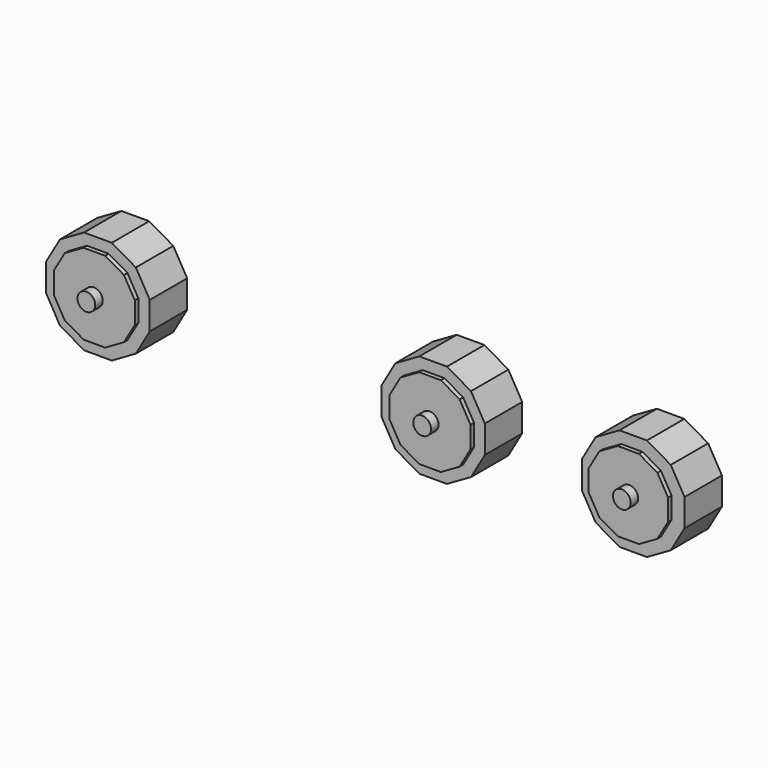
from build123d import *

# Parameters (mm, degrees)
F7_DEPTH  = 8.636
F8_DEPTH  = 0.92202
F9_DEPTH  = 9.4488
F10_R     = 1.642522
F10_R_2   = 1.635058
F10_R_3   = 1.64144
F11_DEPTH = 11.176


with BuildPart() as f7:
    # F2 (on offset) → F7 (new body)
    with BuildSketch(Plane.XZ.offset(-10.16)):
        Polygon((51.644535, -13.246438), (56.726567, -13.246438), (61.127735, -10.705422), (63.668751, -6.304253), (63.668751, -1.222221), (61.127735, 3.178948), (56.726567, 5.719963), (51.644535, 5.719963), (47.243366, 3.178948), (44.70235, -1.222221), (44.70235, -6.304253), (47.243366, -10.705422), align=None)
        Polygon((19.781738, 5.719963), (14.666908, 5.719963), (10.237334, 3.162548), (7.679919, -1.267026), (7.679919, -6.381856), (10.237334, -10.81143), (14.666908, -13.368845), (19.781738, -13.368845), (24.211312, -10.81143), (26.768727, -6.381856), (26.768727, -1.267026), (24.211312, 3.162548), align=None)
        Polygon((-42.154215, 5.719963), (-47.286653, 5.719963), (-51.731474, 3.153745), (-54.297693, -1.291077), (-54.297693, -6.423515), (-51.731474, -10.868336), (-47.286653, -13.434555), (-42.154215, -13.434555), (-37.709393, -10.868336), (-35.143174, -6.423515), (-35.143174, -1.291077), (-37.709393, 3.153745), align=None)
    extrude(amount=F7_DEPTH)


with BuildPart() as f8:
    # F5 (on offset) → F8 (new body)
    with BuildSketch(Plane.XZ.offset(-10.16)):
        Polygon((-42.745606, 3.673679), (-46.712904, 3.673679), (-50.148686, 1.69003), (-52.132335, -1.745751), (-52.132335, -5.71305), (-50.148686, -9.148831), (-46.712904, -11.13248), (-42.745606, -11.13248), (-39.309825, -9.148831), (-37.326175, -5.71305), (-37.326175, -1.745751), (-39.309825, 1.69003), align=None)
        Polygon((19.298258, 3.645636), (15.300904, 3.645636), (11.839094, 1.646959), (9.840417, -1.814851), (9.840417, -5.812205), (11.839094, -9.274015), (15.300904, -11.272692), (19.298258, -11.272692), (22.760069, -9.274015), (24.758746, -5.812205), (24.758746, -1.814851), (22.760069, 1.646959), align=None)
        Polygon((56.059271, 3.589552), (52.122027, 3.589552), (48.712274, 1.62093), (46.743653, -1.788823), (46.743653, -5.726066), (48.712274, -9.135819), (52.122027, -11.10444), (56.059271, -11.10444), (59.469023, -9.135819), (61.437645, -5.726066), (61.437645, -1.788823), (59.469023, 1.62093), align=None)
    extrude(amount=-F8_DEPTH)


with BuildPart() as f9:
    # F6 (on offset) → F9 (new body)
    with BuildSketch(Plane.XZ.offset(-10.16)):
        Polygon((61.279297, -5.700756), (61.279297, -1.769139), (59.313488, 1.635742), (55.908608, 3.60155), (51.976991, 3.60155), (48.572111, 1.635742), (46.606302, -1.769139), (46.606302, -5.700756), (48.572111, -9.105636), (51.976991, -11.071444), (55.908608, -11.071444), (59.313488, -9.105636), align=None)
        Polygon((9.828299, -1.782559), (9.828299, -5.78566), (11.829849, -9.252446), (15.296636, -11.253997), (19.299736, -11.253997), (22.766523, -9.252446), (24.768073, -5.78566), (24.768073, -1.782559), (22.766523, 1.684227), (19.299736, 3.685777), (15.296636, 3.685777), (11.829849, 1.684227), align=None)
        Polygon((-52.198444, -1.71586), (-52.198444, -5.718961), (-50.196893, -9.185748), (-46.730105, -11.187299), (-42.727004, -11.187299), (-39.260217, -9.185748), (-37.258666, -5.718961), (-37.258666, -1.71586), (-39.260217, 1.750928), (-42.727004, 3.752478), (-46.730105, 3.752478), (-50.196893, 1.750928), align=None)
    extrude(amount=F9_DEPTH)


with BuildPart() as f11:
    # F10 (on offset) → F11 (new body)
    with BuildSketch(Plane.XZ.offset(-10.16)):
        with Locations((-44.832822, -3.706632)):
            Circle(F10_R)
        with Locations((54.109834, -3.673284)):
            Circle(F10_R_2)
        with Locations((17.22098, -3.691781)):
            Circle(F10_R_3)
    extrude(amount=F11_DEPTH)


solid = Compound([f7.part, f8.part, f9.part, f11.part])
